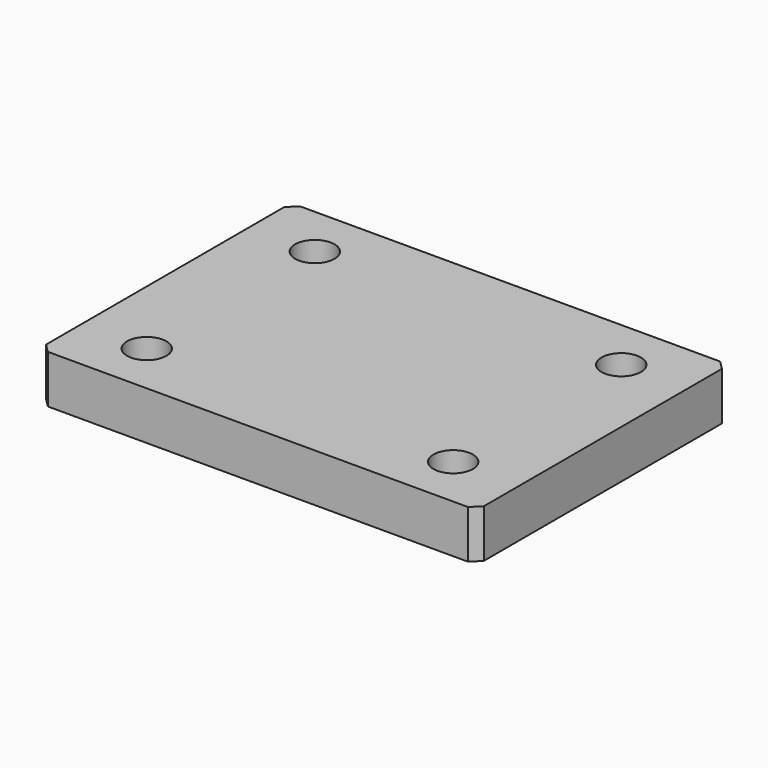
from build123d import *

# Parameters (mm, degrees)
SKETCH_W     = 50
SKETCH_H     = 36
PAD_DEPTH    = 5.5
SKETCH001_R  = 2.25
HOLE_DEPTH   = 25
CHAMFER_SIZE = 1


with BuildPart() as part:
    # Sketch → Pad (new body)
    with BuildSketch(Plane.XY):
        Rectangle(SKETCH_W, SKETCH_H)
    extrude(amount=-PAD_DEPTH)

    # Sketch001 → Hole (cut)
    with BuildSketch(Plane.XY):
        with Locations((-17.5, 12)):
            Circle(SKETCH001_R)
        with Locations((17.5, 12)):
            Circle(SKETCH001_R)
        with Locations((17.5, -12)):
            Circle(SKETCH001_R)
        with Locations((-17.5, -12)):
            Circle(SKETCH001_R)
    extrude(amount=-HOLE_DEPTH, mode=Mode.SUBTRACT)

    # Chamfer
    chamfer_edges = [part.edges().sort_by_distance(p)[0] for p in [
        (-25, -18, -2.75),
        (25, -18, -2.75),
        (-25, 18, -2.75),
        (25, 18, -2.75),
    ]]
    chamfer(chamfer_edges, length=CHAMFER_SIZE)


solid = part.part
